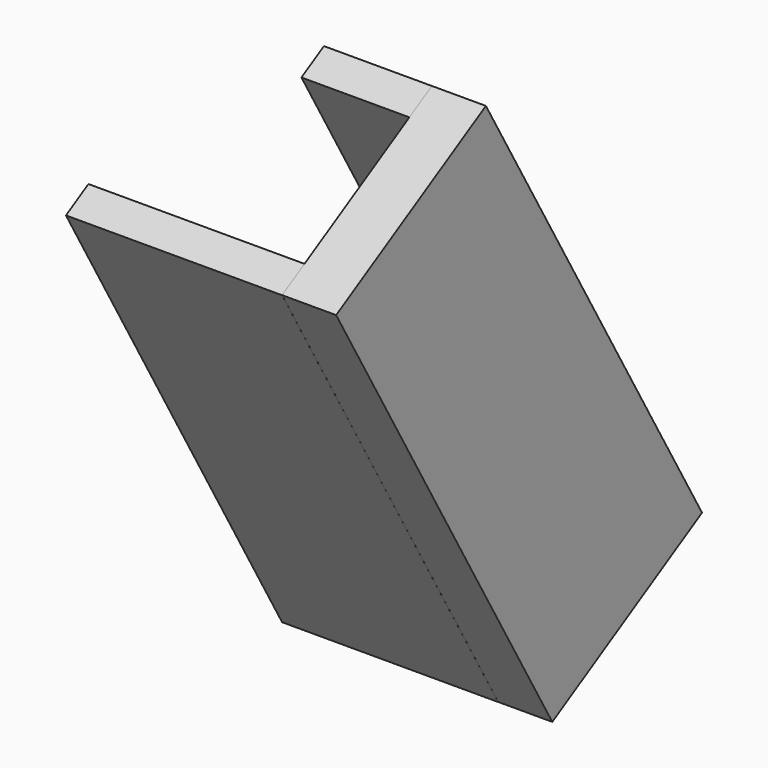
from build123d import *

# Parameters (mm, degrees)
SKETCH066_W             = 50
SKETCH066_H             = 20
PAD065_DEPTH            = 5
SKETCH067_W             = 50
SKETCH067_H             = 3
PAD066_DEPTH            = 20
SKETCH068_W             = 50
SKETCH068_H             = 10
PAD067_DEPTH            = 3
BODY046_ROLL_ANGLE      = 90
BODY046_PITCH_ANGLE     = -60
BODY046_PLACEMENT_ANGLE = -90


with BuildPart() as part:
    # Sketch066 → Pad065 (new body)
    with BuildSketch(Plane.XY):
        with Locations((184.845276, -123.914059)):
            Rectangle(SKETCH066_W, SKETCH066_H)
    extrude(amount=PAD065_DEPTH)

    # Sketch067 (on Face6 of Pad065) → Pad066 (join)
    with BuildSketch(Plane.XY.offset(5)):
        with Locations((184.83606, -132.417099)):
            Rectangle(SKETCH067_W, SKETCH067_H)
    extrude(amount=PAD066_DEPTH)

    # Sketch068 (on Face7 of Pad066) → Pad067 (join)
    with BuildSketch(Plane(origin=(0, -113.914059, 0), x_dir=(-1, 0, 0), z_dir=(0, 1, 0))):
        with Locations((-184.841869, 9.989668)):
            Rectangle(SKETCH068_W, SKETCH068_H)
    extrude(amount=-PAD067_DEPTH)


with BuildPart() as part_1:
    # Body046 roll: moved
    add(part.part.rotate(Axis((0, 0, 0), (1, 0, 0)), BODY046_ROLL_ANGLE))


with BuildPart() as part_2:
    # Body046 pitch: moved
    add(part_1.part.rotate(Axis((0, 0, 0), (0, 1, 0)), BODY046_PITCH_ANGLE))


with BuildPart() as part_3:
    # Body046 placement: moved
    add(part_2.part.moved(Location((125.51314, 216.468461, 42.886067))).rotate(Axis((125.51314, 216.468461, 42.886067), (0, 0, 1)), BODY046_PLACEMENT_ANGLE))


solid = part_3.part
